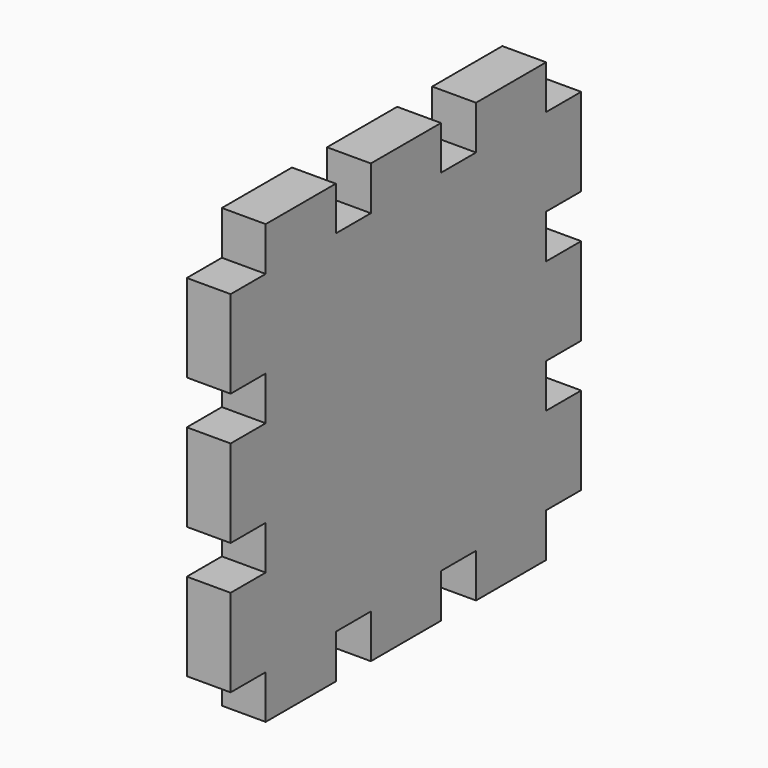
from build123d import *

# Parameters (mm, degrees)
F0_W      = 100
F0_H      = 100
F1_DEPTH  = 10
F2_W      = 10
F2_H      = 10
F3_DEPTH  = 10
F4_W      = 10
F4_H      = 10
F5_DEPTH  = 25
F6_W      = 10
F6_H      = 10
F7_DEPTH  = 10
F8_W      = 10
F8_H      = 10
F9_DEPTH  = 10
F10_W     = 10
F10_H     = 10
F11_DEPTH = 10
F12_W     = 10
F12_H     = 10
F13_DEPTH = 10
F14_W     = 10
F14_H     = 10
F15_DEPTH = 20
F16_W     = 10
F16_H     = 10
F17_DEPTH = 10
F18_W     = 10
F18_H     = 10
F19_DEPTH = 10
F20_W     = 10
F20_H     = 10
F21_DEPTH = 10
F22_W     = 10
F22_H     = 10
F23_DEPTH = 10
F24_W     = 10
F24_H     = 10
F25_DEPTH = 10


with BuildPart() as f1:
    # F0 (on Right) → F1 (new body)
    with BuildSketch(Plane.YZ):
        with Locations((23.273025, 4.85197)):
            Rectangle(F0_W, F0_H)
    extrude(amount=F1_DEPTH)

    # F2 (on face) → F3 (cut)
    with BuildSketch(Plane.YZ.offset(10)):
        with Locations((-21.726975, 49.85197)):
            Rectangle(F2_W, F2_H)
    extrude(amount=-F3_DEPTH, mode=Mode.SUBTRACT)

    # F4 (on face) → F5 (cut)
    with BuildSketch(Plane.YZ.offset(10)):
        with Locations((-21.726975, 19.85197)):
            Rectangle(F4_W, F4_H)
    extrude(amount=-F5_DEPTH, mode=Mode.SUBTRACT)

    # F6 (on face) → F7 (cut)
    with BuildSketch(Plane.YZ.offset(10)):
        with Locations((-21.726975, -10.14803)):
            Rectangle(F6_W, F6_H)
    extrude(amount=-F7_DEPTH, mode=Mode.SUBTRACT)

    # F8 (on face) → F9 (cut)
    with BuildSketch(Plane.YZ.offset(10)):
        with Locations((-21.726975, -40.14803)):
            Rectangle(F8_W, F8_H)
    extrude(amount=-F9_DEPTH, mode=Mode.SUBTRACT)

    # F10 (on face) → F11 (cut)
    with BuildSketch(Plane.YZ.offset(10)):
        with Locations((8.273025, -40.14803)):
            Rectangle(F10_W, F10_H)
    extrude(amount=-F11_DEPTH, mode=Mode.SUBTRACT)

    # F12 (on face) → F13 (cut)
    with BuildSketch(Plane.YZ.offset(10)):
        with Locations((38.273025, -40.14803)):
            Rectangle(F12_W, F12_H)
    extrude(amount=-F13_DEPTH, mode=Mode.SUBTRACT)

    # F14 (on face) → F15 (cut)
    with BuildSketch(Plane.YZ.offset(10)):
        with Locations((68.273025, -40.14803)):
            Rectangle(F14_W, F14_H)
    extrude(amount=-F15_DEPTH, mode=Mode.SUBTRACT)

    # F16 (on face) → F17 (cut)
    with BuildSketch(Plane.YZ.offset(10)):
        with Locations((68.273025, -10.14803)):
            Rectangle(F16_W, F16_H)
    extrude(amount=-F17_DEPTH, mode=Mode.SUBTRACT)

    # F18 (on face) → F19 (cut)
    with BuildSketch(Plane.YZ.offset(10)):
        with Locations((68.273025, 19.85197)):
            Rectangle(F18_W, F18_H)
    extrude(amount=-F19_DEPTH, mode=Mode.SUBTRACT)

    # F20 (on face) → F21 (cut)
    with BuildSketch(Plane.YZ.offset(10)):
        with Locations((68.273025, 49.85197)):
            Rectangle(F20_W, F20_H)
    extrude(amount=-F21_DEPTH, mode=Mode.SUBTRACT)

    # F22 (on face) → F23 (cut)
    with BuildSketch(Plane.YZ.offset(10)):
        with Locations((38.273025, 49.85197)):
            Rectangle(F22_W, F22_H)
    extrude(amount=-F23_DEPTH, mode=Mode.SUBTRACT)

    # F24 (on face) → F25 (cut)
    with BuildSketch(Plane.YZ.offset(10)):
        with Locations((8.273025, 49.85197)):
            Rectangle(F24_W, F24_H)
    extrude(amount=-F25_DEPTH, mode=Mode.SUBTRACT)


solid = f1.part
